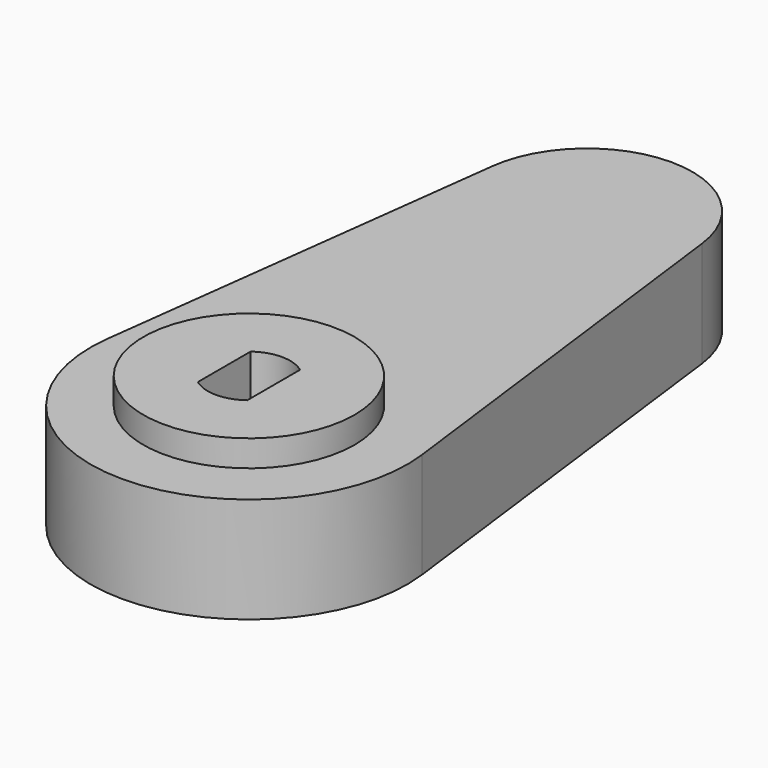
from build123d import *

# Parameters (mm, degrees)
F0_R     = 6.35
F1_DEPTH = 1.5875
F2_R     = 6.35
F3_DEPTH = 6.35


with BuildPart() as f1:
    # F0 (on Top) → F1 (new body)
    with BuildSketch(Plane.XY):
        Circle(F0_R)
        with BuildLine():
            ThreePointArc((1.4859, -1.9812), (0, -2.4765), (-1.4859, -1.9812))
            Line((-1.4859, -1.9812), (-1.4859, 1.9812))
            ThreePointArc((-1.4859, 1.9812), (0, 2.4765), (1.4859, 1.9812))
            Line((1.4859, 1.9812), (1.4859, -1.9812))
        make_face(mode=Mode.SUBTRACT)
    extrude(amount=-F1_DEPTH)

    # F2 (on face) → F3 (join)
    with BuildSketch(Plane(origin=(0, 0, -1.5875), x_dir=(1, 0, 0), z_dir=(0, 0, -1))):
        with BuildLine():
            Line((6.3001953095, -26.19375), (9.4502929642, -1.190625))
            ThreePointArc((9.4502929642, -1.190625), (0, 9.525), (-9.4502929642, -1.190625))
            Line((-9.4502929642, -1.190625), (-6.3001953095, -26.19375))
            ThreePointArc((-6.3001953095, -26.19375), (0, -31.75), (6.3001953095, -26.19375))
        make_face()
        Circle(F2_R, mode=Mode.SUBTRACT)
        Circle(F2_R)
        with BuildLine():
            ThreePointArc((-1.4859, 1.9812), (0, 2.4765), (1.4859, 1.9812))
            Line((1.4859, 1.9812), (1.4859, -1.9812))
            ThreePointArc((1.4859, -1.9812), (0, -2.4765), (-1.4859, -1.9812))
            Line((-1.4859, -1.9812), (-1.4859, 1.9812))
        make_face(mode=Mode.SUBTRACT)
    extrude(amount=F3_DEPTH)


solid = f1.part
